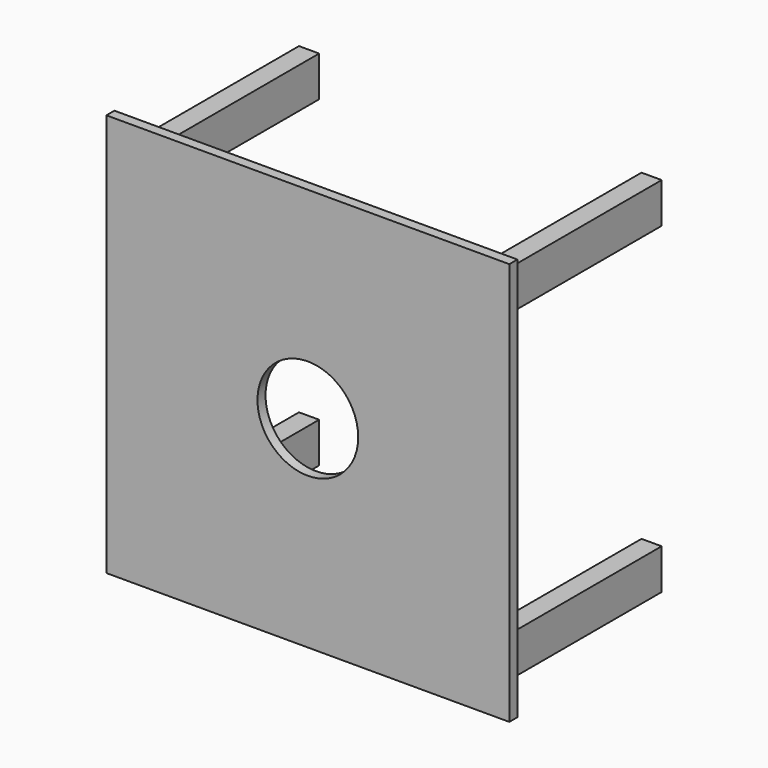
from build123d import *

# Parameters (mm, degrees)
F0_W     = 1000
F0_H     = 1000
F0_R     = 125
F1_DEPTH = 25
F2_W     = 50
F2_H     = 100
F3_DEPTH = 510


with BuildPart() as f1:
    # F0 (on Front) → F1 (new body)
    with BuildSketch(Plane.XZ):
        with Locations((500, -500)):
            Rectangle(F0_W, F0_H)
        with Locations((500, -500)):
            Circle(F0_R, mode=Mode.SUBTRACT)
    extrude(amount=F1_DEPTH)

    # F2 (on face) → F3 (join)
    with BuildSketch(Plane(origin=(0, 0, 0), x_dir=(-1, 0, 0), z_dir=(0, 1, 0))):
        with Locations((-925, -100)):
            Rectangle(F2_W, F2_H)
        with Locations((-925, -900)):
            Rectangle(F2_W, F2_H)
        with Locations((-75, -100)):
            Rectangle(F2_W, F2_H)
        with Locations((-75, -900)):
            Rectangle(F2_W, F2_H)
    extrude(amount=F3_DEPTH)


solid = f1.part
